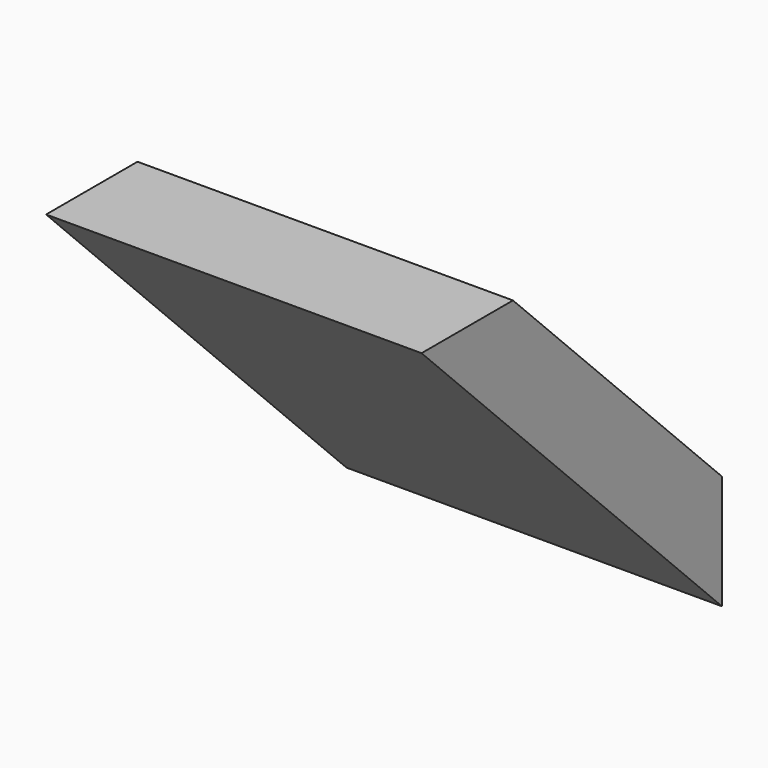
from build123d import *

# Parameters (mm, degrees)
F0_W     = 85
F0_H     = 85
F1_DEPTH = 42.5
F7_DEPTH = 50


with BuildPart() as f1:
    # F0 (on Top) → F1 (new body, symmetric)
    with BuildSketch(Plane.XY):
        Rectangle(F0_W, F0_H)
    extrude(amount=F1_DEPTH, both=True)

    # F6 (on Right) → F7 (cut, symmetric)
    with BuildSketch(Plane.YZ):
        Polygon((75.503635, -75.503635), (0, 0), (-49.804213, 49.804213), (-49.804213, -75.503635), align=None)
        Polygon((-34.243761, 60.113393), (9.302937, 16.566695), (63.825734, -37.956103), (63.825734, 60.113393), align=None)
    extrude(amount=F7_DEPTH, both=True, mode=Mode.SUBTRACT)


solid = f1.part
